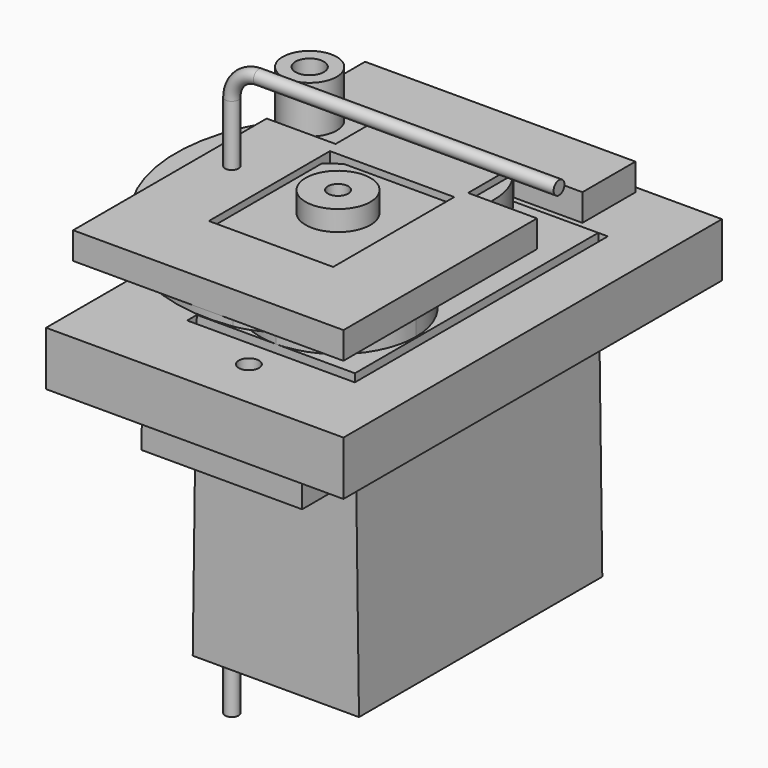
from build123d import *

# Parameters (mm, degrees)
F4_DEPTH       = 7.5
F5_R           = 1.1
F6_DEPTH       = 18.001
F8_DEPTH       = 4.2
F9_R           = 2.4
F9_R_2         = 0.75
F10_DEPTH      = 3.5
F12_DEPTH      = 10.751
F12_DEPTH_BACK = 21.751
F13_R          = 2.4
F14_DEPTH      = 2
F16_W          = 9.2
F16_H          = 11.2
F17_DEPTH      = 2
F18_W          = 22
F18_H          = 35
F18_R          = 0.75
F19_DEPTH      = 4
F20_R          = 2
F20_R_2        = 1.05
F21_DEPTH      = 10
F22_R          = 0.5
F24_R          = 5


with BuildPart() as f4:
    # F3 (on Right) → F4 (new body, symmetric)
    with BuildSketch(Plane.YZ):
        Polygon((-5.75, 0), (-10.75, 0), (-10.75, -2.5), (-5.75, -2.5), (-5.75, -18), (16.75, -18), (16.75, -2.5), (21.75, -2.5), (21.75, 0), (16.75, 0), (16.75, 4.3), (-5.75, 4.3), align=None)
    extrude(amount=F4_DEPTH, both=True)

    # F5 (on Top) → F6 (cut, through all)
    with BuildSketch(Plane.XY):
        with Locations((0, -8.25)):
            Circle(F5_R)
        with Locations((0, 19.25)):
            Circle(F5_R)
    extrude(amount=-F6_DEPTH, mode=Mode.SUBTRACT)

    # F7 (on face) → F8 (join)
    with BuildSketch(Plane.XY.offset(4.3)):
        with BuildLine():
            ThreePointArc((0, -5.75), (4.0658639918, -4.0658639918), (5.75, 0))
            ThreePointArc((5.75, 0), (-4.0658639918, 4.0658639918), (0, -5.75))
        make_face()
    extrude(amount=F8_DEPTH)

    # F9 (on face) → F10 (join)
    with BuildSketch(Plane.XY.offset(8.5)):
        Circle(F9_R)
        Circle(F9_R_2, mode=Mode.SUBTRACT)
    extrude(amount=F10_DEPTH)

    # F11 (on Front) → F12 (cut, two sides)
    with BuildSketch(Plane.XZ) as f12_sk:
        Polygon((-10.8185609129, -18), (-6.15, -18), (-5.85, 4.3), (-5.85, 12), (5.85, 12), (5.85, 4.3), (6.15, -18), (12.056059204, -18), (12.056059204, 17.8524129022), (-10.8185609129, 17.8524129022), align=None)
    extrude(amount=F12_DEPTH, mode=Mode.SUBTRACT)
    extrude(f12_sk.sketch, amount=-F12_DEPTH_BACK, mode=Mode.SUBTRACT)


with BuildPart() as f14:
    # F13 (on face) → F14 (new body)
    with BuildSketch(Plane.XY.offset(8.5)):
        with BuildLine():
            Line((6, -10.3923048454), (6, 10.3923048454))
            ThreePointArc((6, 10.3923048454), (-12, 0), (6, -10.3923048454))
        make_face()
        with BuildLine():
            ThreePointArc((0, -10.1), (-8.6, -1.5), (0, 7.1))
            ThreePointArc((0, 7.1), (0.6, 6.5), (0, 5.9))
            ThreePointArc((0, 5.9), (-7.4, -1.5), (0, -8.9))
            ThreePointArc((0, -8.9), (0.6, -9.5), (0, -10.1))
        make_face(mode=Mode.SUBTRACT)
        Circle(F13_R, mode=Mode.SUBTRACT)
    extrude(amount=F14_DEPTH)

    # F24
    f24_edges = [f14.edges().sort_by_distance(p)[0] for p in [
        (6, -10.392305, 9.5),
        (6, 10.392305, 9.5),
    ]]
    fillet(f24_edges, radius=F24_R)


with BuildPart() as f17:
    # F16 (on offset) → F17 (new body)
    with BuildSketch(Plane.XY.offset(9)):
        Polygon((10, 15), (-10, 15), (-10, 10.1), (-4.9, 10.1), (-4.9, 5.9), (-10, 5.9), (-10, -12), (10, -12), (10, 5.9), (4.9, 5.9), (4.9, 10.1), (10, 10.1), align=None)
        with Locations((0, -0.6)):
            Rectangle(F16_W, F16_H, mode=Mode.SUBTRACT)
    extrude(amount=F17_DEPTH)


with BuildPart() as f19:
    # F18 (on Top) → F19 (new body)
    with BuildSketch(Plane.XY):
        with Locations((-1, 5.5)):
            Rectangle(F18_W, F18_H)
        with Locations((0, -8.25)):
            Circle(F18_R, mode=Mode.SUBTRACT)
        with BuildLine():
            Line((-6.2, 0.5787910421), (-6.2, 17.2))
            Line((-6.2, 17.2), (6.2, 17.2))
            Line((6.2, 17.2), (6.2, -6.2))
            Line((6.2, -6.2), (-6.2, -6.2))
            Line((-6.2, -6.2), (-6.2, -0.5787910421))
            ThreePointArc((-6.2, -0.5787910421), (-6.2783503675, -0.594674123), (-6.3581168228, -0.6))
            Line((-6.3581168228, -0.6), (-9.3581168228, -0.6))
            ThreePointArc((-9.3581168228, -0.6), (-9.9581168228, 0), (-9.3581168228, 0.6))
            Line((-9.3581168228, 0.6), (-6.3581168228, 0.6))
            ThreePointArc((-6.3581168228, 0.6), (-6.2783503675, 0.594674123), (-6.2, 0.5787910421))
        make_face(mode=Mode.SUBTRACT)
        with Locations((0, 19.25)):
            Circle(F18_R, mode=Mode.SUBTRACT)
    extrude(amount=F19_DEPTH)


with BuildPart() as f21:
    # F20 (on face) → F21 (new body)
    with BuildSketch(Plane.XY.offset(4)):
        with Locations((-8.5, 8)):
            Circle(F20_R)
        with Locations((-8.5, 8)):
            Circle(F20_R_2, mode=Mode.SUBTRACT)
    extrude(amount=F21_DEPTH)


with BuildPart() as f23:
    # F23: sweep along a path in F1
    with BuildLine(Plane.XZ) as f23_path:
        Line((-7.8581168228, -24.6301926672), (-7.8581168228, 15.4700445116))
        ThreePointArc((-7.8581168228, 15.4700445116), (-7.2723303851, 16.8842580739), (-5.8581168228, 17.4700445116))
        Line((-5.8581168228, 17.4700445116), (16.3483962125, 17.4700445116))
    # F22 (on plane+point) → F23 (sweep)
    with BuildSketch(Plane.XY.offset(-24.6301926672)):
        with Locations((-7.8581168228, 0)):
            Circle(F22_R)
    sweep(path=f23_path.line)


solid = Compound([f4.part, f14.part, f17.part, f19.part, f21.part, f23.part])
